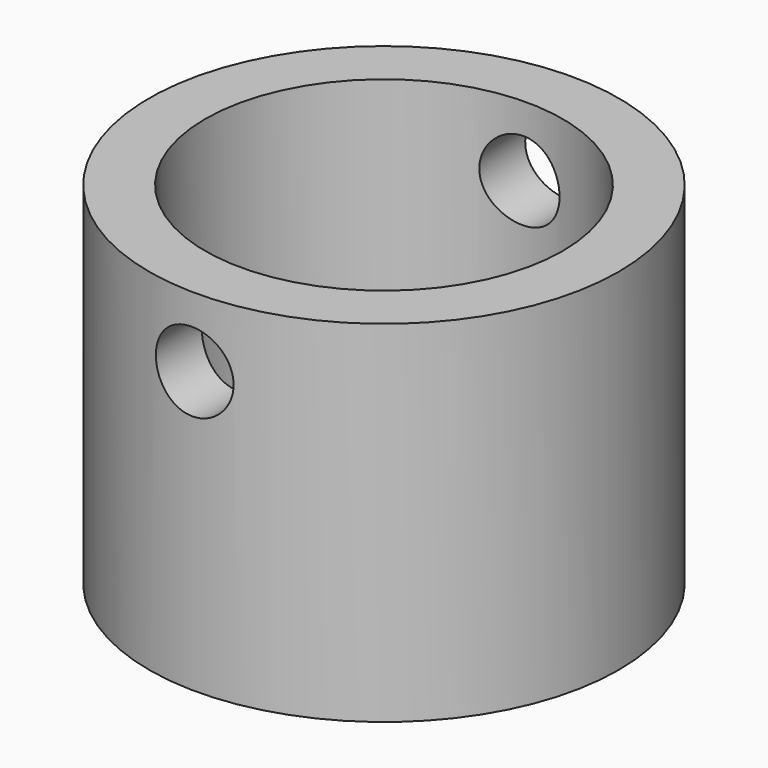
from build123d import *

# Parameters (mm, degrees)
F0_R     = 8.375
F1_DEPTH = 12.5
F2_R     = 6.375
F3_DEPTH = 10
F4_R     = 1.404945
F5_DEPTH = 75


with BuildPart() as f1:
    # F0 (on Top) → F1 (new body)
    with BuildSketch(Plane.XY):
        with Locations((19.557578, 38.052302)):
            Circle(F0_R)
    extrude(amount=F1_DEPTH)

    # F2 (on face) → F3 (cut)
    with BuildSketch(Plane.XY.offset(12.5)):
        with Locations((19.557578, 38.052302)):
            Circle(F2_R)
    extrude(amount=-F3_DEPTH, mode=Mode.SUBTRACT)

    # F4 (on Front) → F5 (cut)
    with BuildSketch(Plane.XZ):
        with Locations((19.41436, 10.001411)):
            Circle(F4_R)
    extrude(amount=-F5_DEPTH, mode=Mode.SUBTRACT)


solid = f1.part
